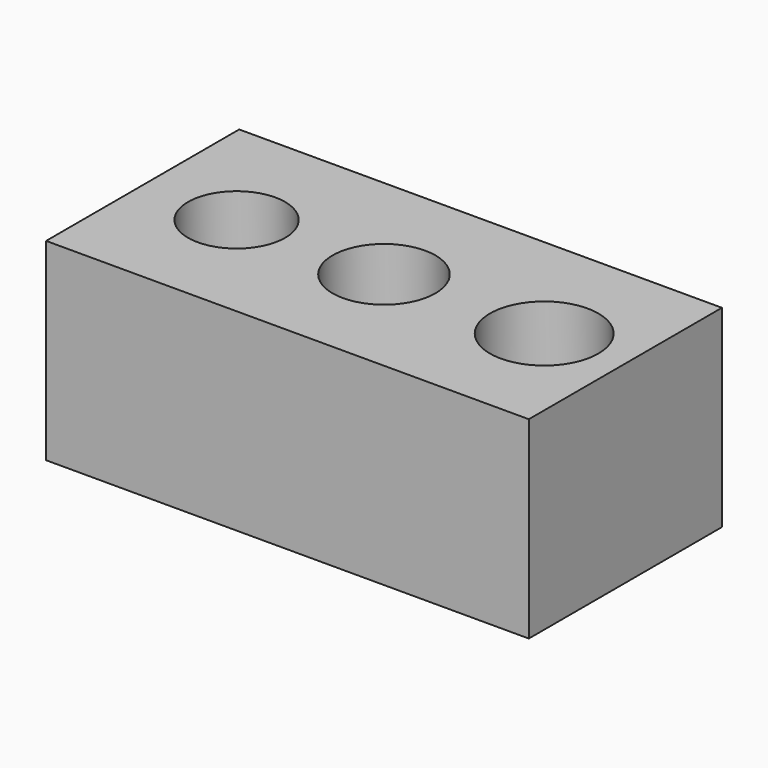
from build123d import *

# Parameters (mm, degrees)
F0_W     = 25.4
F0_H     = 12.7
F1_DEPTH = 10.16
F2_R     = 2.5551
F2_R_2   = 2.7051
F2_R_3   = 2.8551
F3_DEPTH = 7


with BuildPart() as f1:
    # F0 (on Top) → F1 (new body)
    with BuildSketch(Plane.XY):
        with Locations((21.658436, -4.771074)):
            Rectangle(F0_W, F0_H)
    extrude(amount=F1_DEPTH)

    # F2 (on face) → F3 (cut)
    with BuildSketch(Plane.XY.offset(10.16)):
        with Locations((13.902133, -4.771074)):
            Circle(F2_R)
        with Locations((21.658436, -4.771074)):
            Circle(F2_R_2)
        with Locations((30.087745, -4.771074)):
            Circle(F2_R_3)
    extrude(amount=-F3_DEPTH, mode=Mode.SUBTRACT)


solid = f1.part
